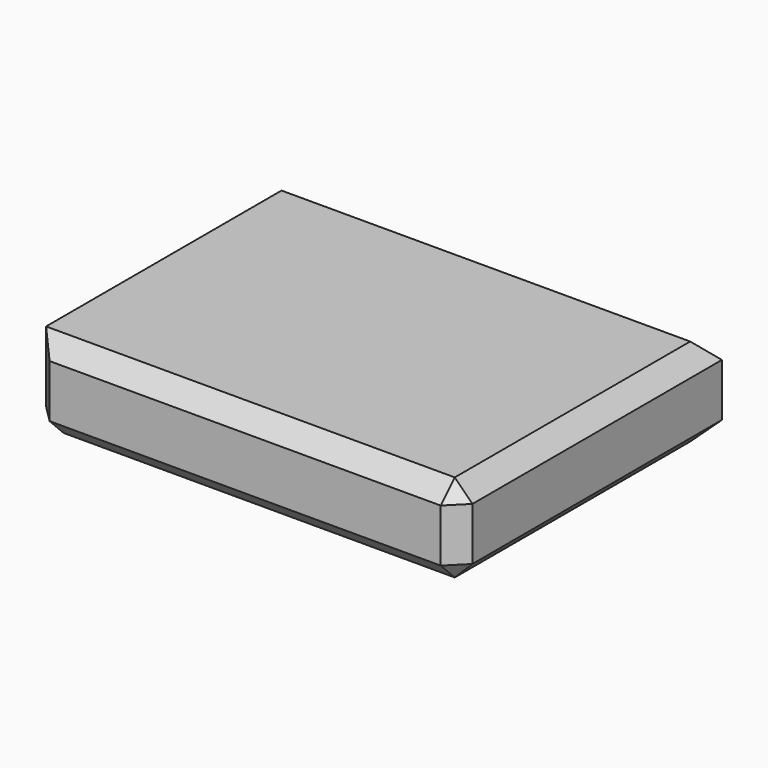
from build123d import *

# Parameters (mm, degrees)
F0_W     = 120.96186
F0_H     = 93.502812
F1_DEPTH = 25
F2_SIZE  = 5


with BuildPart() as f1:
    # F0 (on Top) → F1 (new body)
    with BuildSketch(Plane.XY):
        Rectangle(F0_W, F0_H)
    extrude(amount=F1_DEPTH)

    # F2
    f2_edges = [f1.edges().sort_by_distance(p)[0] for p in [
        (0, -46.751406, 25),
        (60.48093, 0, 25),
        (60.48093, -46.751406, 12.5),
        (0, -46.751406, 0),
        (60.48093, 0, 0),
        (0, 46.751406, 25),
        (0, 46.751406, 0),
        (-60.48093, 0, 0),
        (-60.48093, 46.751406, 12.5),
        (-60.48093, -46.751406, 12.5),
    ]]
    chamfer(f2_edges, length=F2_SIZE)


solid = f1.part
